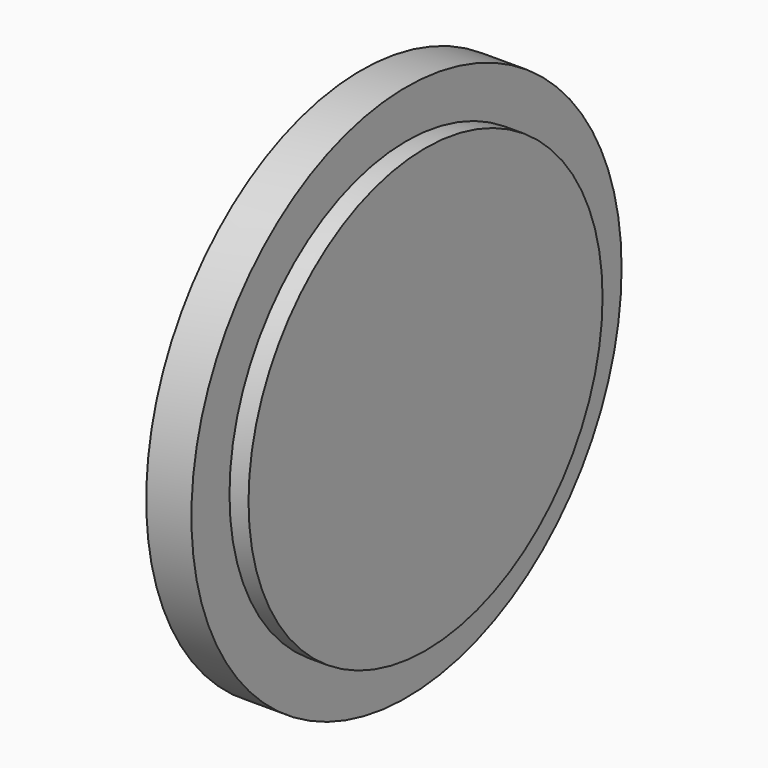
from build123d import *

# Parameters (mm, degrees)
F0_R     = 56.5
F1_DEPTH = 13.5
F2_W     = 4
F2_H     = 10


with BuildPart() as f1:
    # F0 (on Right) → F1 (new body)
    with BuildSketch(Plane.YZ):
        Circle(F0_R)
    extrude(amount=F1_DEPTH)

    # F2 (on Front) → F3 (revolve, cut)
    with BuildSketch(Plane.XZ):
        with Locations((11.5, 51.5)):
            Rectangle(F2_W, F2_H)
    revolve(axis=Axis((0, 0, 0), (-1, 0, 0)), mode=Mode.SUBTRACT)


solid = f1.part
